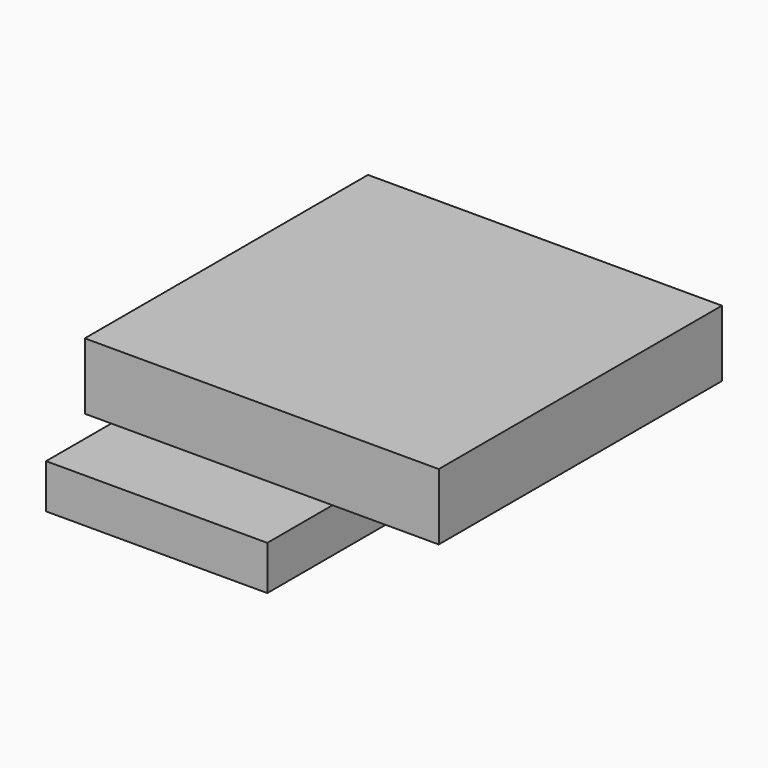
from build123d import *

# Parameters (mm, degrees)
F0_W     = 80
F0_H     = 80
F1_DEPTH = 15
F3_W     = 50
F3_H     = 50
F4_DEPTH = 10


with BuildPart() as f1:
    # F0 (on Top) → F1 (new body)
    with BuildSketch(Plane.XY):
        with Locations((40, -40)):
            Rectangle(F0_W, F0_H)
    extrude(amount=F1_DEPTH)


with BuildPart() as f4:
    # F3 (on offset) → F4 (new body)
    with BuildSketch(Plane(origin=(0, 0, -25.4), x_dir=(1, 0, 0), z_dir=(0, 0, -1))):
        with Locations((0.5074296147, 35.3203896433)):
            Rectangle(F3_W, F3_H)
    extrude(amount=F4_DEPTH)


solid = Compound([f1.part, f4.part])
